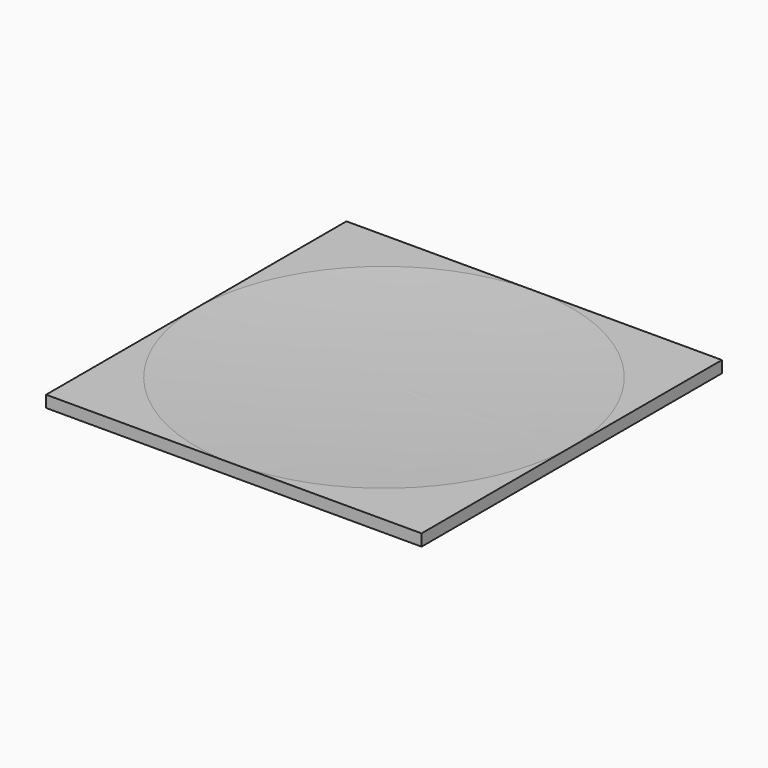
from build123d import *

# Parameters (mm, degrees)
F0_W     = 609.6
F0_H     = 609.6
F1_DEPTH = 19.05


with BuildPart() as f1:
    # F0 (on Top) → F1 (new body)
    with BuildSketch(Plane.XY):
        Rectangle(F0_W, F0_H)
    extrude(amount=F1_DEPTH)

    # F2 (on Front) → F3 (revolve, cut)
    with BuildSketch(Plane.XZ):
        with BuildLine():
            Line((0, 6107.43), (0, 11.43))
            ThreePointArc((0, 11.43), (4310.522938, 1796.907062), (6096, 6107.43))
            Line((6096, 6107.43), (0, 6107.43))
        make_face()
    revolve(axis=Axis((0, 0, 2706.899623), (0, 0, -1)), mode=Mode.SUBTRACT)


solid = f1.part
